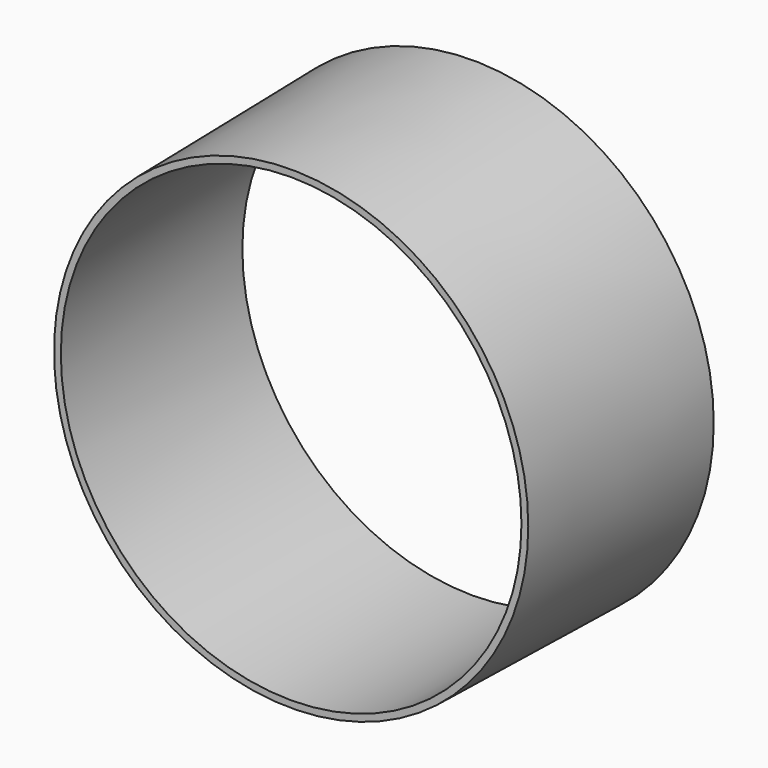
from build123d import *

# Parameters (mm, degrees)
F0_R     = 13.49375
F1_DEPTH = 12.7
F1_TAPER = 1
F3_R     = 12.8905
F4_DEPTH = 25.4


with BuildPart() as f1:
    # F0 (on Front) → F1 (new body)
    with BuildSketch(Plane.XZ):
        Circle(F0_R)
    extrude(amount=F1_DEPTH, taper=F1_TAPER)

    # F3 (on face) → F4 (cut)
    with BuildSketch(Plane(origin=(0, 0, 0), x_dir=(-1, 0, 0), z_dir=(0, 1, 0))):
        Circle(F3_R)
        Circle(F3_R)
    extrude(amount=-F4_DEPTH, mode=Mode.SUBTRACT)


solid = f1.part
